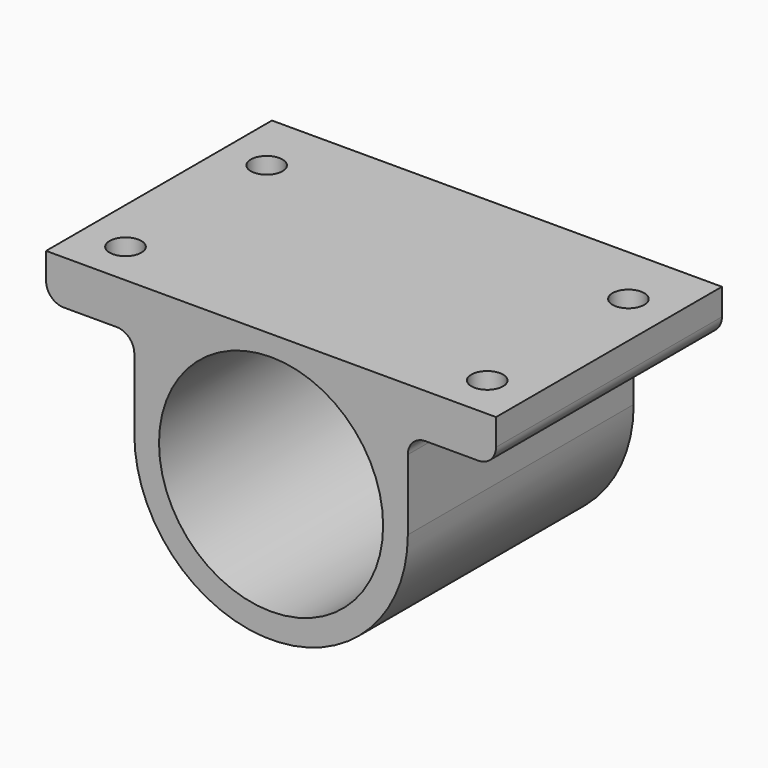
from build123d import *

# Parameters (mm, degrees)
PAD009_START            = 60
PAD009_DEPTH            = 32
SKETCH045_R             = 12.7
POCKET028_DEPTH         = 30
SKETCH046_R             = 1.8
SKETCH046_R_2           = 3.7
POCKET029_DEPTH         = 2
SKETCH047_R             = 1.8
POCKET030_DEPTH         = 5.001
SKETCH048_R             = 3
POCKET031_DEPTH         = 1.2
POCKET031_TAPER         = 45
SKETCH049_R             = 3
POCKET032_DEPTH         = 2
POCKET032_TAPER         = 45
BODY006_PLACEMENT_ANGLE = 180


with BuildPart() as part:
    # Sketch044 → Pad009 (new body)
    with BuildSketch(Plane.XZ.offset(PAD009_START)):
        with BuildLine():
            ThreePointArc((-15.5, 0), (0, -15.5), (15.5, 0))
            Line((15.5, 8), (15.5, 0))
            ThreePointArc((17.5, 10), (16.085786, 9.414214), (15.5, 8))
            Line((23.5, 10), (17.5, 10))
            ThreePointArc((23.5, 10), (24.914214, 10.585786), (25.5, 12))
            Line((25.5, 15), (25.5, 12))
            Line((-25.5, 15), (25.5, 15))
            Line((-25.5, 12), (-25.5, 15))
            ThreePointArc((-25.5, 12), (-24.914214, 10.585786), (-23.5, 10))
            Line((-17.5, 10), (-23.5, 10))
            ThreePointArc((-15.5, 8), (-16.085786, 9.414214), (-17.5, 10))
            Line((-15.5, 0), (-15.5, 8))
        make_face()
    extrude(amount=PAD009_DEPTH)

    # Sketch045 (on Face13 of Pad009) → Pocket028 (cut)
    with BuildSketch(Plane(origin=(0, -60, 0), x_dir=(1, 0, 0), z_dir=(0, 1, 0))):
        Circle(SKETCH045_R)
    extrude(amount=-POCKET028_DEPTH, mode=Mode.SUBTRACT)

    # Sketch046 (on Face5 of Pocket028) → Pocket029 (cut)
    with BuildSketch(Plane.XZ.offset(92)):
        with Locations((0, 8.5)):
            Circle(SKETCH046_R)
        with Locations((0, -8.5)):
            Circle(SKETCH046_R)
        Circle(SKETCH046_R_2)
    extrude(amount=-POCKET029_DEPTH, mode=Mode.SUBTRACT)

    # Sketch047 (on Face3 of Pocket029) → Pocket030 (cut, through all)
    with BuildSketch(Plane(origin=(0, 0, 10), x_dir=(1, 0, 0), z_dir=(0, 0, -1))):
        with Locations((-20.5, 85)):
            Circle(SKETCH047_R)
        with Locations((-20.5, 65)):
            Circle(SKETCH047_R)
        with Locations((20.5, 65)):
            Circle(SKETCH047_R)
        with Locations((20.5, 85)):
            Circle(SKETCH047_R)
    extrude(amount=-POCKET030_DEPTH, mode=Mode.SUBTRACT)

    # Sketch048 (on Face3 of Pocket030) → Pocket031 (cut)
    with BuildSketch(Plane(origin=(0, 0, 10), x_dir=(1, 0, 0), z_dir=(0, 0, -1))):
        with Locations((-20.5, 85)):
            Circle(SKETCH048_R)
        with Locations((20.5, 85)):
            Circle(SKETCH048_R)
        with Locations((20.5, 65)):
            Circle(SKETCH048_R)
        with Locations((-20.5, 65)):
            Circle(SKETCH048_R)
    extrude(amount=-POCKET031_DEPTH, taper=POCKET031_TAPER, mode=Mode.SUBTRACT)

    # Sketch049 (on Face7 of Pocket031) → Pocket032 (cut)
    with BuildSketch(Plane.XZ.offset(92)):
        with Locations((0, 8.5)):
            Circle(SKETCH049_R)
        with Locations((0, -8.5)):
            Circle(SKETCH049_R)
    extrude(amount=-POCKET032_DEPTH, taper=POCKET032_TAPER, mode=Mode.SUBTRACT)


with BuildPart() as part_1:
    # Body006 placement: moved
    add(part.part.moved(Location((0, -2, 0))).rotate(Axis((0, -2, 0), (0, 0, 1)), BODY006_PLACEMENT_ANGLE))


solid = part_1.part
